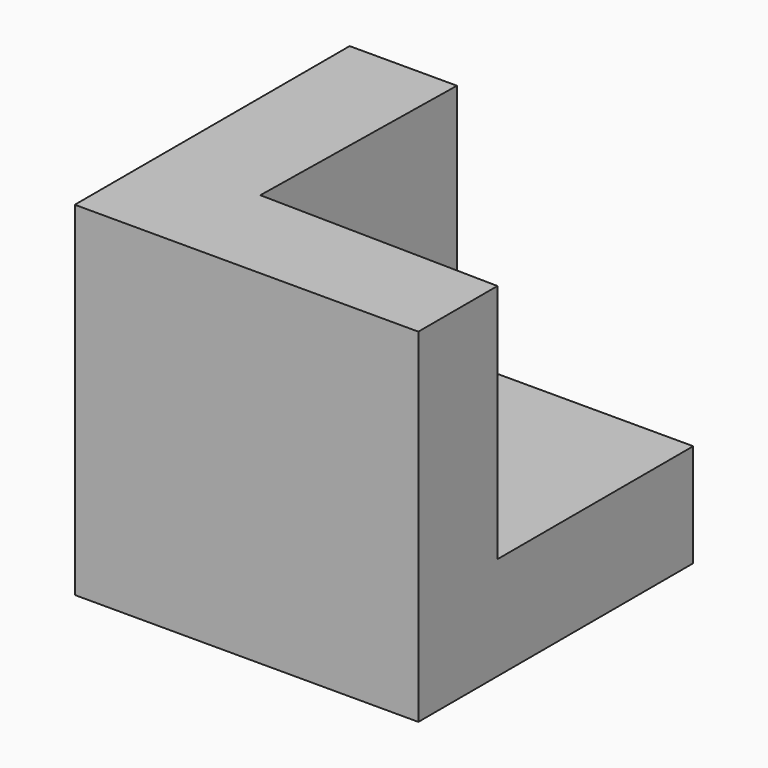
from build123d import *

# Parameters (mm, degrees)
BOX001_W               = 10
BOX001_H               = 10
BOX001_DEPTH           = 10
BOX001_PLACEMENT_ANGLE = 1
BOX_W                  = 10
BOX_H                  = 10
BOX_DEPTH              = 10


with BuildPart() as obj1:
    # Box001 → Box001 (new body)
    with BuildSketch(Plane.XY):
        with Locations((5, 5)):
            Rectangle(BOX001_W, BOX001_H)
    extrude(amount=BOX001_DEPTH)


with BuildPart() as obj1_1:
    # Box001 placement: moved
    add(obj1.part.moved(Location((3, 3, 3))).rotate(Axis((3, 3, 3), (0, 0, -1)), BOX001_PLACEMENT_ANGLE))


with BuildPart() as cut:
    # Box → Box (new body)
    with BuildSketch(Plane.XY):
        with Locations((5, 5)):
            Rectangle(BOX_W, BOX_H)
    extrude(amount=BOX_DEPTH)

    # Cut: cut obj1
    add(obj1_1.part, mode=Mode.SUBTRACT)


solid = cut.part
